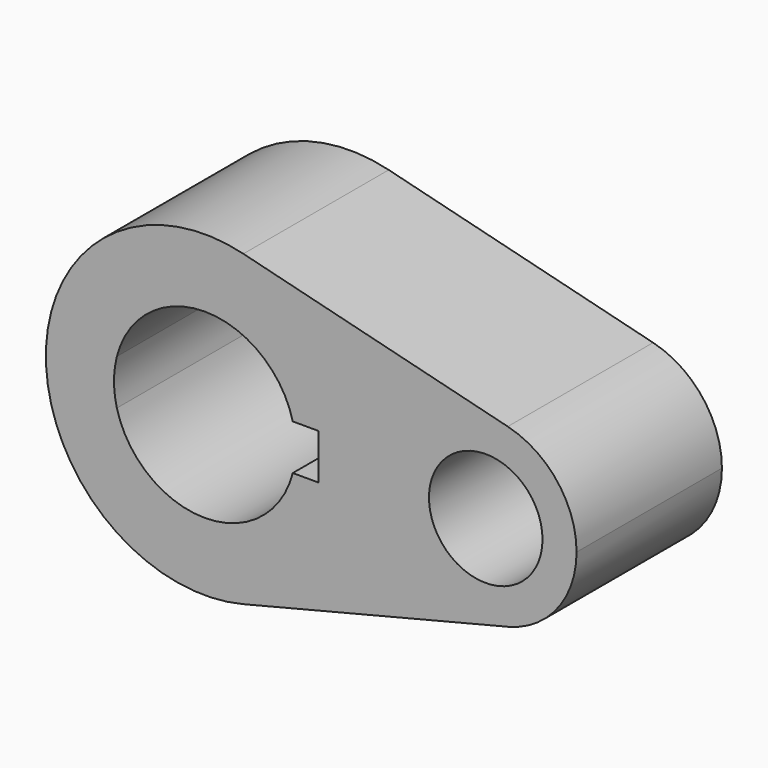
from build123d import *

# Parameters (mm, degrees)
F0_R     = 15.875
F1_DEPTH = 50.8


with BuildPart() as f1:
    # F0 (on Front) → F1 (new body)
    with BuildSketch(Plane.XZ):
        with BuildLine():
            ThreePointArc((10.780709, -43.122834), (35.035732, -27.355073), (44.45, 0))
            ThreePointArc((44.45, 0), (35.035732, 27.355073), (10.780709, 43.122834))
            ThreePointArc((10.780709, 43.122834), (-44.45, 0), (10.780709, -43.122834))
        make_face()
        with BuildLine():
            ThreePointArc((-24.593444, 6.35), (0, 25.4), (24.593444, 6.35))
            Line((24.593444, 6.35), (31.75, 6.35))
            Line((31.75, 6.35), (31.75, -6.35))
            Line((31.75, -6.35), (24.593444, -6.35))
            ThreePointArc((24.593444, -6.35), (0, -25.4), (-24.593444, -6.35))
            Line((-24.593444, -6.35), (-31.75, -6.35))
            Line((-31.75, -6.35), (-31.75, 6.35))
            Line((-31.75, 6.35), (-24.593444, 6.35))
        make_face(mode=Mode.SUBTRACT)
        with BuildLine():
            ThreePointArc((10.780709, 43.122834), (35.035732, 27.355073), (44.45, 0))
            ThreePointArc((44.45, 0), (35.035732, -27.355073), (10.780709, -43.122834))
            Line((10.780709, -43.122834), (84.705567, -24.64162))
            ThreePointArc((84.705567, -24.64162), (53.145162, 0), (84.705567, 24.64162))
            Line((84.705567, 24.64162), (10.780709, 43.122834))
        make_face()
        with BuildLine():
            ThreePointArc((103.945162, 0), (98.56558, 15.63147), (84.705567, 24.64162))
            ThreePointArc((84.705567, 24.64162), (53.145162, 0), (84.705567, -24.64162))
            ThreePointArc((84.705567, -24.64162), (98.56558, -15.63147), (103.945162, 0))
        make_face()
        with Locations((78.545162, 0)):
            Circle(F0_R, mode=Mode.SUBTRACT)
        with BuildLine():
            ThreePointArc((-24.593444, -6.35), (-25.4, 0), (-24.593444, 6.35))
            Line((-24.593444, 6.35), (-31.75, 6.35))
            Line((-31.75, 6.35), (-31.75, -6.35))
            Line((-31.75, -6.35), (-24.593444, -6.35))
        make_face()
    extrude(amount=F1_DEPTH)


solid = f1.part
